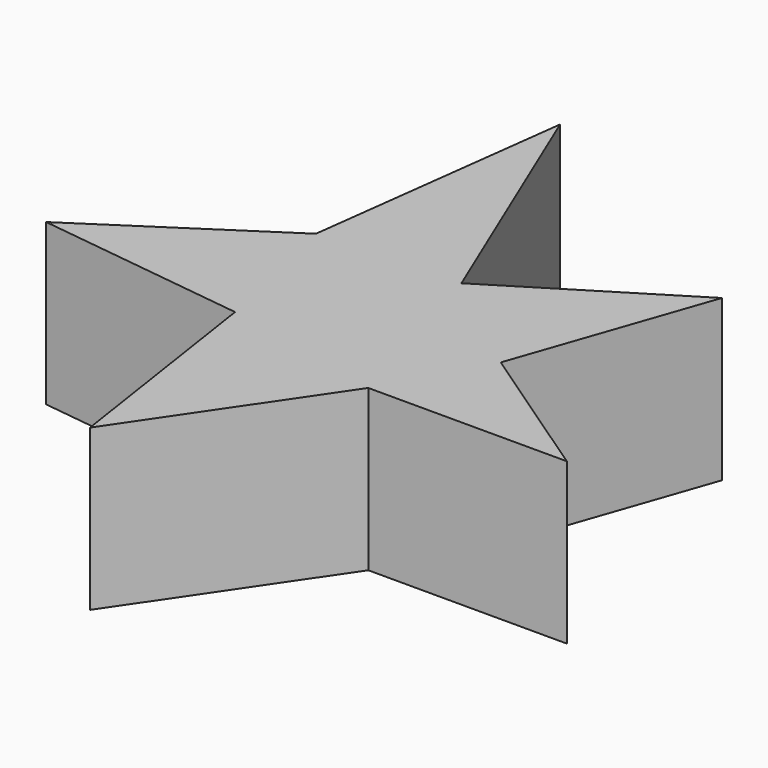
from build123d import *

# Parameters (mm, degrees)
F1_DEPTH = 25.4


with BuildPart() as f1:
    # F0 (on Top) → F1 (new body)
    with BuildSketch(Plane.XY):
        Polygon((-29.655082, 48.006002), (-34.940146, 6.312716), (-62.931565, -12.07747), (-29.655082, -16.295616), (-24.333833, -51.636777), (-4.110607, -21.874294), (27.306167, -21.874294), (4.404223, -6.312716), (14.974348, 24.22321), (-12.625431, 7.19356), align=None)
    extrude(amount=-F1_DEPTH)


solid = f1.part
